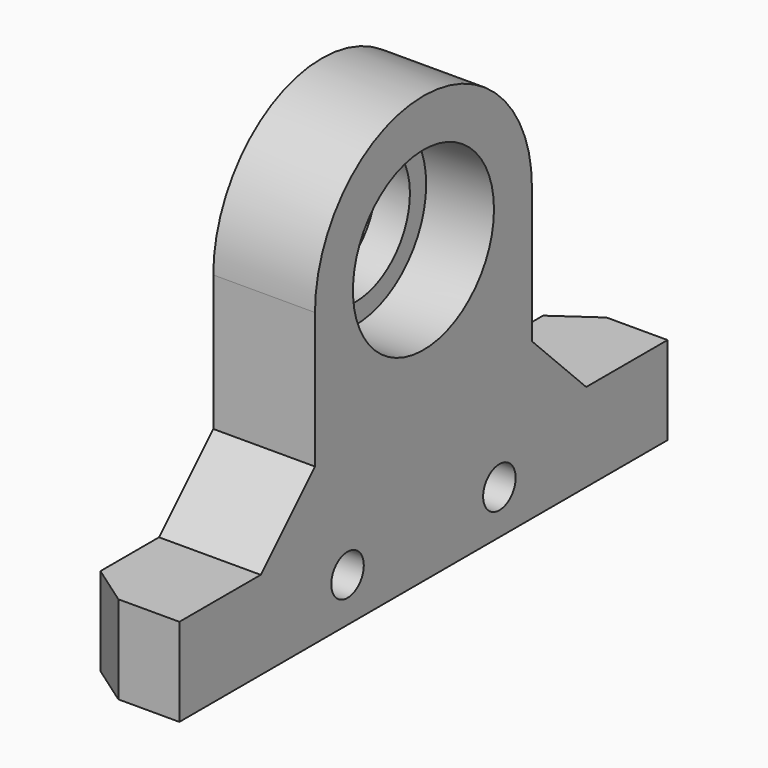
from build123d import *

# Parameters (mm, degrees)
SKETCH001_R      = 6.5
EXTRUDE001_DEPTH = 7.5
TUBE003_R        = 6.5
TUBE003_R_2      = 5
TUBE003_DEPTH    = 2.5
SKETCH024_R      = 1.5
EXTRUDE016_DEPTH = 100
EXTRUDE007_DEPTH = 6.5


with BuildPart() as extrude001:
    # Sketch001 (on Tube) → Extrude001 (new body)
    with BuildSketch(Plane.YZ):
        with BuildLine():
            ThreePointArc((10, 0), (0, 10), (-10, 0))
            Line((-10, 0), (-10, -10))
            Line((-15, -15), (-10, -10))
            Line((-15, -15), (15, -15))
            Line((10, -10), (15, -15))
            Line((10, 0), (10, -10))
        make_face()
        Circle(SKETCH001_R, mode=Mode.SUBTRACT)
    extrude(amount=-EXTRUDE001_DEPTH)


with BuildPart() as extrude001_1:
    # Extrude001 placement: moved
    add(extrude001.part.moved(Location((-15, 0, 0))))


with BuildPart() as fusion001:
    # Tube003 → Tube003 (new body)
    with BuildSketch(Plane(origin=(-22.5, 0, 0), x_dir=(0, 0, -1), z_dir=(1, 0, 0))):
        Circle(TUBE003_R)
        Circle(TUBE003_R_2, mode=Mode.SUBTRACT)
    extrude(amount=TUBE003_DEPTH)

    # Fusion001: union Extrude001
    add(extrude001_1.part)


with BuildPart() as extrude016:
    # Sketch024 → Extrude016 (new body)
    with BuildSketch(Plane.YZ.offset(34.5)):
        with Locations((-7, -18.25)):
            Circle(SKETCH024_R)
        with Locations((7, -18.25)):
            Circle(SKETCH024_R)
    extrude(amount=-EXTRUDE016_DEPTH)


with BuildPart() as fusion005:
    # Sketch014 (on Face7 of Fusion001) → Extrude007 (new body)
    with BuildSketch(Plane(origin=(0, 0, -15), x_dir=(1, 0, 0), z_dir=(0, 0, -1))):
        Polygon((-22.5, 20.399377), (-22.5, -20.399377), (-19.5, -22.5), (-15, -22.5), (-15, 22.5), (-19.5, 22.5), align=None)
    extrude(amount=EXTRUDE007_DEPTH)

    # Cut005: cut Extrude016
    add(extrude016.part, mode=Mode.SUBTRACT)

    # Fusion005: union Fusion001
    add(fusion001.part)


solid = fusion005.part
